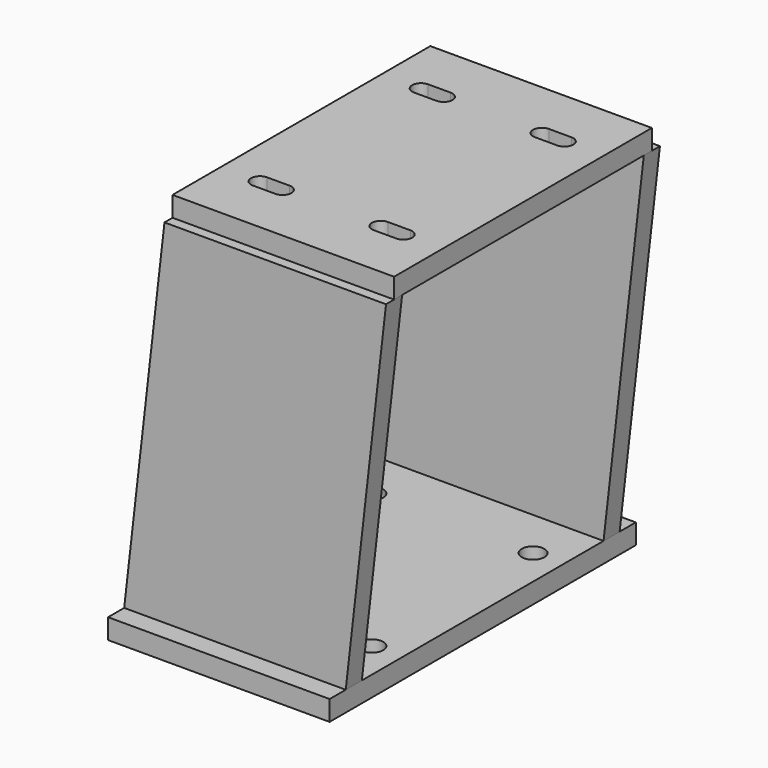
from build123d import *

# Parameters (mm, degrees)
F0_W     = 139.7
F0_H     = 241.3
F1_DEPTH = 12.7
F3_D     = 14.2875
F5_W     = 139.7
F5_H     = 203.2
F6_DEPTH = 12.7
F8_DEPTH = 6.35


with BuildPart() as f1:
    # F0 (on Top) → F1 (new body)
    with BuildSketch(Plane.XY):
        Rectangle(F0_W, F0_H)
    extrude(amount=F1_DEPTH)

    # F3 (through all)
    with Locations(Plane.XY.offset(12.7)):
        with Locations((-50.8, 63.5), (50.8, 63.5), (50.8, -63.5), (-50.8, -63.5)):
            Hole(F3_D / 2)



with BuildPart() as f6:
    # F5 (on offset) → F6 (new body)
    with BuildSketch(Plane(origin=(0, 0, 247.65), x_dir=(1, 0, 0), z_dir=(0, 0, -1))):
        with Locations((25.4, 0)):
            Rectangle(F5_W, F5_H)
        with BuildLine():
            Line((-5.588, -69.088), (-19.812, -69.088))
            ThreePointArc((-19.812, -69.088), (-25.4, -63.5), (-19.812, -57.912))
            Line((-19.812, -57.912), (-5.588, -57.912))
            ThreePointArc((-5.588, -57.912), (0, -63.5), (-5.588, -69.088))
        make_face(mode=Mode.SUBTRACT)
        with BuildLine():
            ThreePointArc((56.388, -69.088), (50.8, -63.5), (56.388, -57.912))
            Line((56.388, -57.912), (70.612, -57.912))
            ThreePointArc((70.612, -57.912), (76.2, -63.5), (70.612, -69.088))
            Line((70.612, -69.088), (56.388, -69.088))
        make_face(mode=Mode.SUBTRACT)
        with BuildLine():
            Line((-5.588, 57.912), (-19.812, 57.912))
            ThreePointArc((-19.812, 57.912), (-25.4, 63.5), (-19.812, 69.088))
            Line((-19.812, 69.088), (-5.588, 69.088))
            ThreePointArc((-5.588, 69.088), (0, 63.5), (-5.588, 57.912))
        make_face(mode=Mode.SUBTRACT)
        with BuildLine():
            Line((56.388, 69.088), (70.612, 69.088))
            ThreePointArc((70.612, 69.088), (76.2, 63.5), (70.612, 57.912))
            Line((70.612, 57.912), (56.388, 57.912))
            ThreePointArc((56.388, 57.912), (50.8, 63.5), (56.388, 69.088))
        make_face(mode=Mode.SUBTRACT)
    extrude(amount=F6_DEPTH)


with BuildPart() as f1_1:
    add(f1.part)

    add(f6.part)  # F8 merges F6
    # F7 (on face) → F8 (join, symmetric)
    with BuildSketch(Plane.XZ.offset(101.6)):
        Polygon((95.25, 234.95), (-44.45, 234.95), (-69.85, 12.7), (69.85, 12.7), align=None)
    extrude(amount=F8_DEPTH, both=True)

    # F9: F1 across plane


with BuildPart() as f1_2:
    add(f1_1.part)
    add(f1_1.part.mirror(Plane.XZ))


solid = f1_2.part
